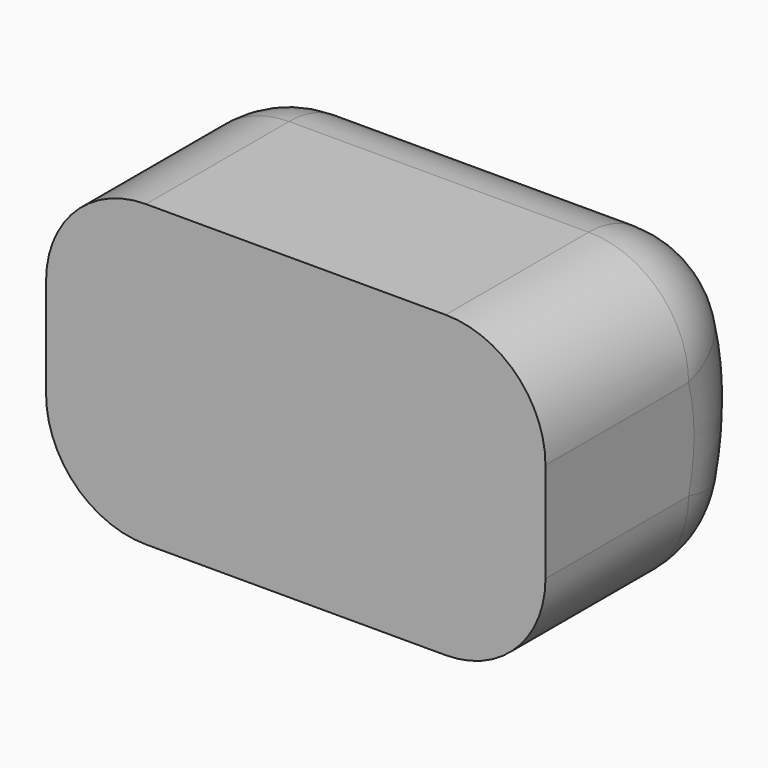
from build123d import *

# Parameters (mm, degrees)
F0_W     = 127
F0_H     = 76.2
F1_DEPTH = 76.2
F3_DEPTH = 127.001
F4_R     = 25.4


with BuildPart() as f1:
    # F0 (on Front) → F1 (new body)
    with BuildSketch(Plane.XZ):
        Rectangle(F0_W, F0_H)
    extrude(amount=F1_DEPTH)

    # F2 (on face) → F3 (cut, through all)
    with BuildSketch(Plane(origin=(-63.5, 0, 0), x_dir=(0, -1, 0), z_dir=(-1, 0, 0))):
        with BuildLine():
            ThreePointArc((14.3655382942, 38.1), (37.6635127669, 61.5633803993), (68.9486063382, 72.2670598849))
            Line((68.9486063382, 72.2670598849), (-52.0951251411, 60.1213361119))
            Line((-52.0951251411, 60.1213361119), (-33.0926589668, -48.5322624445))
            Line((-33.0926589668, -48.5322624445), (48.5539544729, -67.162540312))
            ThreePointArc((48.5539544729, -67.162540312), (29.1590805148, -55.3377136177), (14.3655382942, -38.1))
            Line((14.3655382942, -38.1), (0, -38.1))
            Line((0, -38.1), (0, 38.1))
            Line((0, 38.1), (14.3655382942, 38.1))
        make_face()
        with BuildLine():
            ThreePointArc((14.3655382942, -38.1), (3.5700429957, 0), (14.3655382942, 38.1))
            Line((14.3655382942, 38.1), (0, 38.1))
            Line((0, 38.1), (0, -38.1))
            Line((0, -38.1), (14.3655382942, -38.1))
        make_face()
    extrude(amount=-F3_DEPTH, mode=Mode.SUBTRACT)

    # F4
    f4_edges = [f1.edges().sort_by_distance(p)[0] for p in [
        (-63.5, -45.282769, 38.1),
        (63.5, -45.282769, 38.1),
        (-63.5, -45.282769, -38.1),
        (63.5, -45.282769, -38.1),
        (63.5, -3.570043, 0),
        (-63.5, -3.570043, 0),
        (0, -14.365538, -38.1),
        (0, -14.365538, 38.1),
    ]]
    fillet(f4_edges, radius=F4_R)


solid = f1.part
